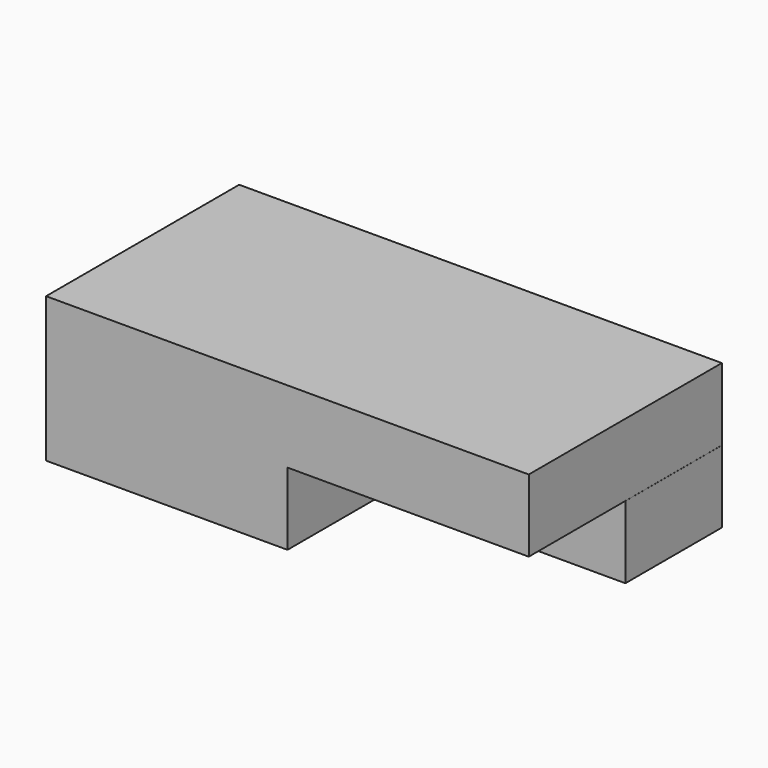
from build123d import *

# Parameters (mm, degrees)
F1_DEPTH = 63.5
F3_DEPTH = 72.136
F4_DEPTH = 31.75


with BuildPart() as f1:
    # F0 (on Front) → F1 (new body)
    with BuildSketch(Plane.XZ):
        Polygon((65.964764, 38.1), (-61.035236, 38.1), (-61.035236, 0), (2.464764, 0), (65.979816, 0), (65.964764, 19.05), align=None)
    extrude(amount=F1_DEPTH)

    # F2 (on Front) → F3 (cut)
    with BuildSketch(Plane.XZ):
        Polygon((2.483717, 0), (65.983717, 0), (65.983717, 19.056977), (2.487009, 19.056977), align=None)
    extrude(amount=F3_DEPTH, mode=Mode.SUBTRACT)

    # F2 (on Front) → F4 (join)
    with BuildSketch(Plane.XZ):
        Polygon((2.483717, 0), (65.983717, 0), (65.983717, 19.056977), (2.487009, 19.056977), align=None)
    extrude(amount=F4_DEPTH)


solid = f1.part
